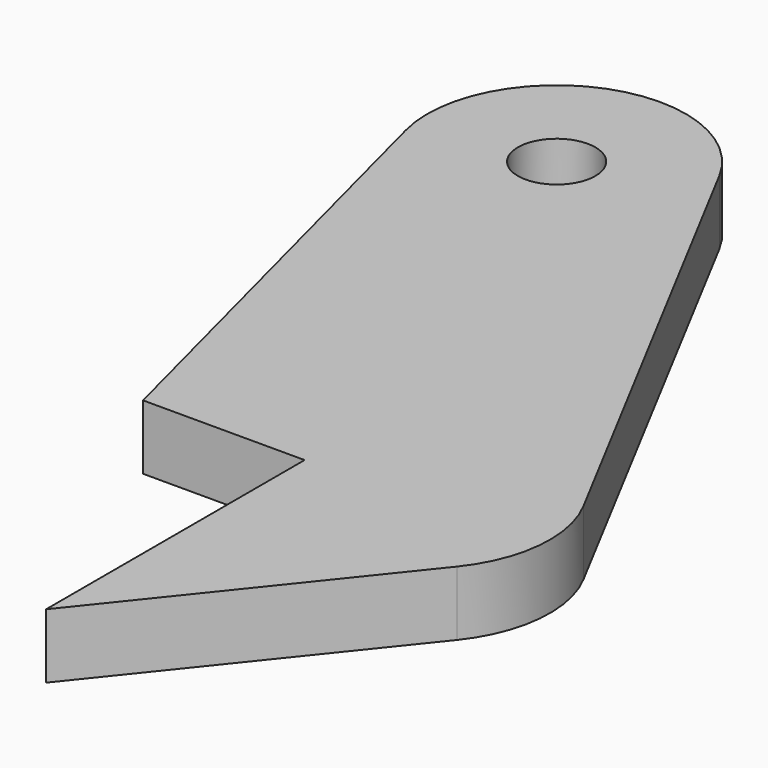
from build123d import *

# Parameters (mm, degrees)
F0_R     = 6
F1_DEPTH = 10


with BuildPart() as f1:
    # F0 (on Top) → F1 (new body)
    with BuildSketch(Plane.XY):
        with BuildLine():
            Line((58.85537, -68.397695), (17.674352, 9.360411))
            ThreePointArc((17.674352, 9.360411), (-7.229789, 18.647524), (-19.364917, -5))
            Line((-19.364917, -5), (0, -80))
            Line((0, -80), (25, -80))
            Line((25, -80), (25, -130))
            Line((25, -130), (56.798395, -90.252006))
            ThreePointArc((56.798395, -90.252006), (61.093013, -79.632266), (58.85537, -68.397695))
        make_face()
        Circle(F0_R, mode=Mode.SUBTRACT)
    extrude(amount=F1_DEPTH)


solid = f1.part
